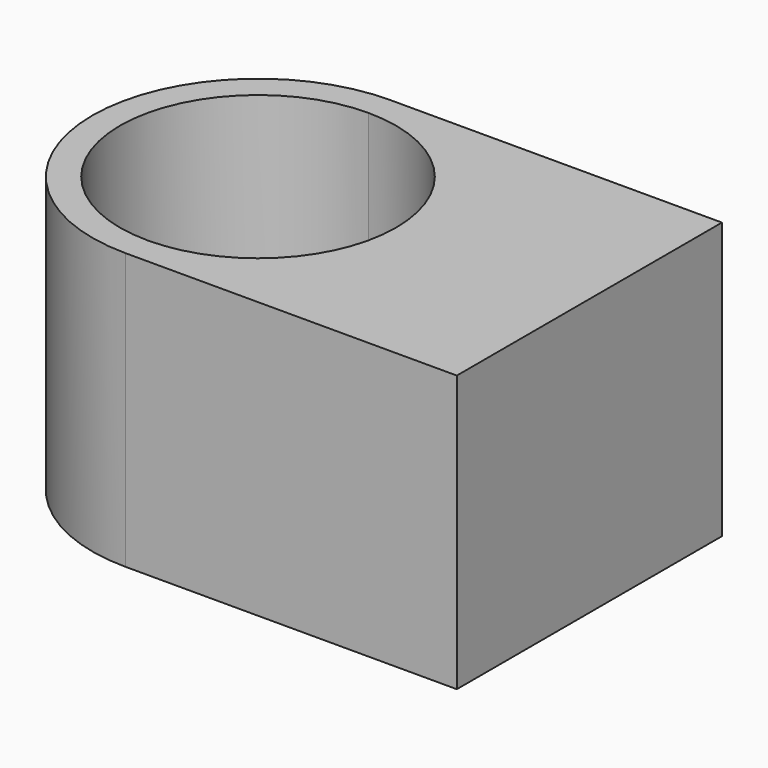
from build123d import *

# Parameters (mm, degrees)
F1_DEPTH = 25


with BuildPart() as f1:
    # F0 (on Top) → F1 (new body)
    with BuildSketch(Plane.XY):
        with BuildLine():
            ThreePointArc((15, -15), (10.6066017178, -4.3933982822), (0, 0))
            Line((0, 0), (0, -2.5))
            ThreePointArc((0, -2.5), (8.8388347648, -6.1611652352), (12.5, -15))
            ThreePointArc((12.5, -15), (8.8388347648, -23.8388347648), (0, -27.5))
            Line((0, -27.5), (0, -30))
            ThreePointArc((0, -30), (10.6066017178, -25.6066017178), (15, -15))
        make_face()
        with BuildLine():
            Line((30, 0), (0, 0))
            ThreePointArc((0, 0), (10.6066017178, -4.3933982822), (15, -15))
            ThreePointArc((15, -15), (10.6066017178, -25.6066017178), (0, -30))
            Line((0, -30), (30, -30))
            Line((30, -30), (30, 0))
        make_face()
        with BuildLine():
            Line((0, -2.5), (0, 0))
            ThreePointArc((0, 0), (-15, -15), (0, -30))
            Line((0, -30), (0, -27.5))
            ThreePointArc((0, -27.5), (-12.5, -15), (0, -2.5))
        make_face()
        with BuildLine():
            Line((30, 0), (0, 0))
            ThreePointArc((0, 0), (10.6066017178, -4.3933982822), (15, -15))
            ThreePointArc((15, -15), (10.6066017178, -25.6066017178), (0, -30))
            Line((0, -30), (30, -30))
            Line((30, -30), (30, 0))
        make_face()
    extrude(amount=F1_DEPTH)


solid = f1.part
